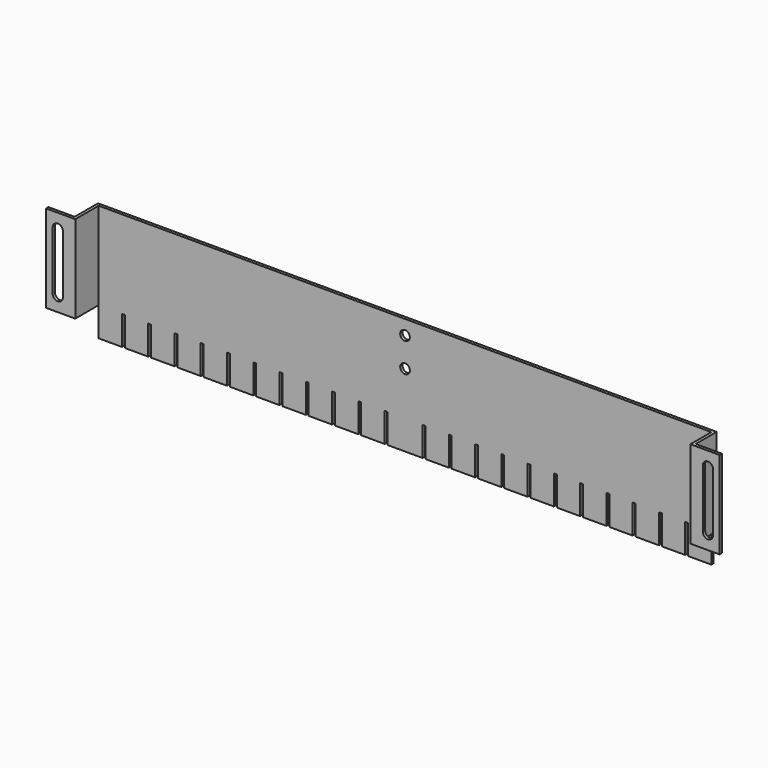
from build123d import *

# Parameters (mm, degrees)
F1_DEPTH = 30
F3_DEPTH = 25
F4_W     = 8
F4_H     = 10
F4_W_2   = 12
F5_DEPTH = 1
F7_D     = 3.3


with BuildPart() as f1:
    # F0 (on Top) → F1 (new body)
    with BuildSketch(Plane.XY):
        Polygon((-115, 0), (-115, -1), (-105, -1), (-105, 9), (105, 9), (105, 0), (115, 0), (115, 1), (106, 1), (106, 10), (-106, 10), (-106, 0), align=None)
    extrude(amount=F1_DEPTH)

    # F2 (on face) → F3 (cut)
    with BuildSketch(Plane(origin=(0, 1, 0), x_dir=(-1, 0, 0), z_dir=(0, 1, 0))):
        with BuildLine():
            Line((-109.25, 5), (-109.25, 25))
            ThreePointArc((-109.25, 25), (-111, 26.75), (-112.75, 25))
            Line((-112.75, 25), (-112.75, 5))
            ThreePointArc((-112.75, 5), (-111, 3.25), (-109.25, 5))
        make_face()
        with BuildLine():
            Line((109.25, 25), (109.25, 5))
            ThreePointArc((109.25, 5), (111, 3.25), (112.75, 5))
            Line((112.75, 5), (112.75, 25))
            ThreePointArc((112.75, 25), (111, 26.75), (109.25, 25))
        make_face()
    extrude(amount=-F3_DEPTH, mode=Mode.SUBTRACT)

    # F4 (on face) → F5 (join)
    with BuildSketch(Plane.XZ.offset(-9)):
        with Locations((-101, -5)):
            Rectangle(F4_W, F4_H)
        with Locations((-92, -5)):
            Rectangle(F4_W, F4_H)
        with Locations((-83, -5)):
            Rectangle(F4_W, F4_H)
        with Locations((-74, -5)):
            Rectangle(F4_W, F4_H)
        with Locations((-65, -5)):
            Rectangle(F4_W, F4_H)
        with Locations((-56, -5)):
            Rectangle(F4_W, F4_H)
        with Locations((-47, -5)):
            Rectangle(F4_W, F4_H)
        with Locations((-38, -5)):
            Rectangle(F4_W, F4_H)
        with Locations((-29, -5)):
            Rectangle(F4_W, F4_H)
        with Locations((-20, -5)):
            Rectangle(F4_W, F4_H)
        with Locations((-11, -5)):
            Rectangle(F4_W, F4_H)
        with Locations((101, -5)):
            Rectangle(F4_W, F4_H)
        with Locations((92, -5)):
            Rectangle(F4_W, F4_H)
        with Locations((83, -5)):
            Rectangle(F4_W, F4_H)
        with Locations((74, -5)):
            Rectangle(F4_W, F4_H)
        with Locations((65, -5)):
            Rectangle(F4_W, F4_H)
        with Locations((56, -5)):
            Rectangle(F4_W, F4_H)
        with Locations((47, -5)):
            Rectangle(F4_W, F4_H)
        with Locations((38, -5)):
            Rectangle(F4_W, F4_H)
        with Locations((29, -5)):
            Rectangle(F4_W, F4_H)
        with Locations((20, -5)):
            Rectangle(F4_W, F4_H)
        with Locations((11, -5)):
            Rectangle(F4_W, F4_H)
        with Locations((0, -5)):
            Rectangle(F4_W_2, F4_H)
    extrude(amount=-F5_DEPTH)

    # F7 (through all)
    with Locations(Plane(origin=(0, 10, 0), x_dir=(-1, 0, 0), z_dir=(0, 1, 0))):
        with Locations((0, 15), (0, 25)):
            Hole(F7_D / 2)


solid = f1.part
